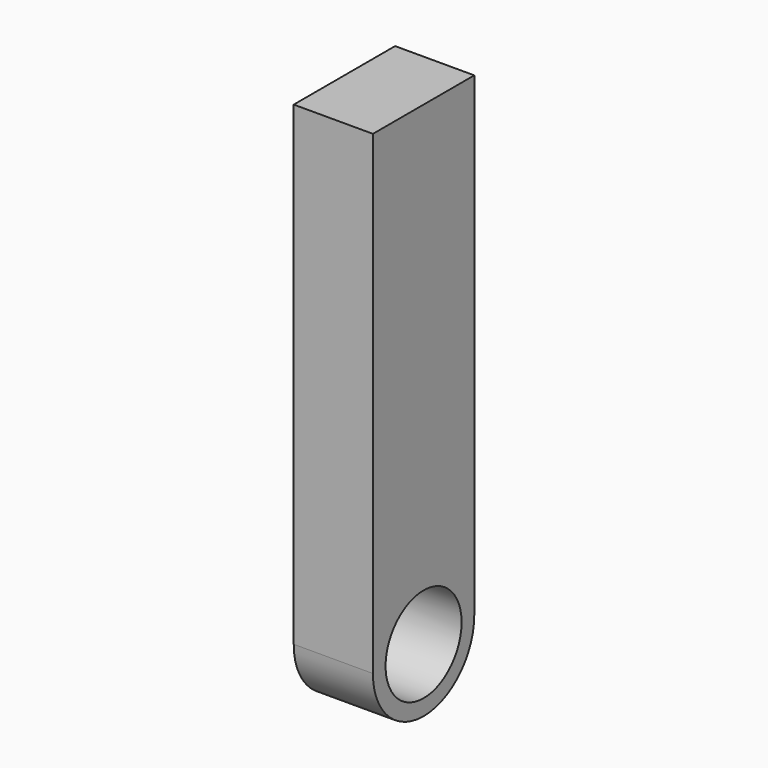
from build123d import *

# Parameters (mm, degrees)
F1_DEPTH = 25


with BuildPart() as f1:
    # F0 (on Right) → F1 (new body)
    with BuildSketch(Plane.YZ):
        with BuildLine():
            ThreePointArc((-15, 0), (0, 15), (15, 0))
            Line((15, 0), (20, 0))
            ThreePointArc((20, 0), (0, 20), (-20, 0))
            Line((-20, 0), (-15, 0))
        make_face()
        with BuildLine():
            Line((20, 0), (15, 0))
            ThreePointArc((15, 0), (0, -15), (-15, 0))
            Line((-15, 0), (-20, 0))
            ThreePointArc((-20, 0), (0, -20), (20, 0))
        make_face()
        with BuildLine():
            ThreePointArc((-20, 0), (0, 20), (20, 0))
            Line((20, 0), (20, 150))
            Line((20, 150), (-20, 150))
            Line((-20, 150), (-20, 0))
        make_face()
    extrude(amount=F1_DEPTH)


solid = f1.part
